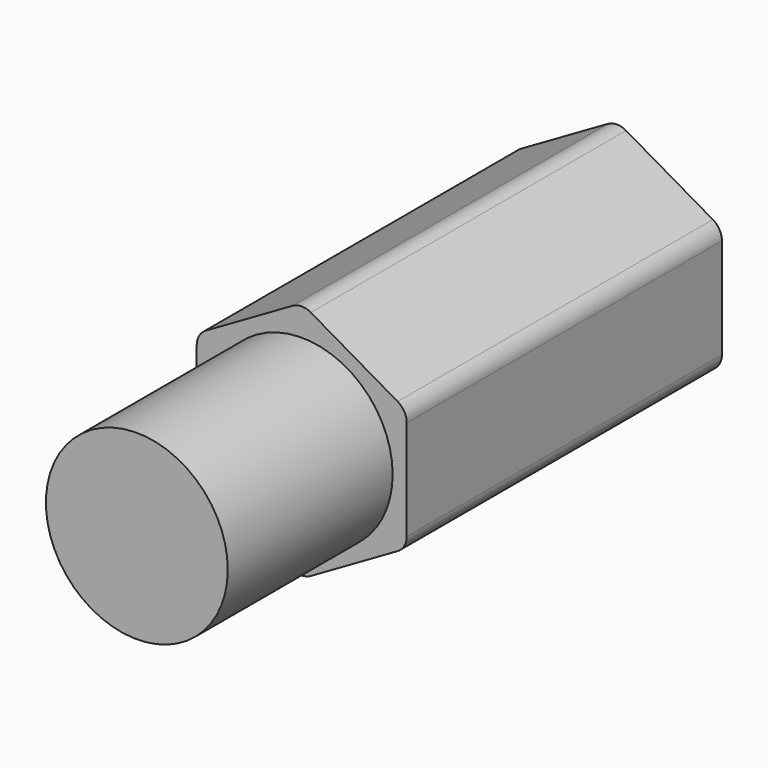
from build123d import *

# Parameters (mm, degrees)
PRISM_DEPTH       = 6.5
FILLET017_R       = 0.3
CYLINDER010_R     = 1.5
CYLINDER010_DEPTH = 3.4
CYLINDER011_R     = 1
CYLINDER011_DEPTH = 6.5


with BuildPart() as part:
    # Prism → Prism (join)
    with BuildSketch(Plane(origin=(12.5, 25.5, 6.3), x_dir=(0, 0, -1), z_dir=(0, -1, 0))):
        Polygon((2, 0), (1, 1.732051), (-1, 1.732051), (-2, 0), (-1, -1.732051), (1, -1.732051), align=None)
    extrude(amount=PRISM_DEPTH)

    # Fillet017
    fillet017_edges = [part.edges().sort_by_distance(p)[0] for p in [
        (12.5, 22.25, 8.3),
        (14.232051, 22.25, 7.3),
        (10.767949, 22.25, 7.3),
        (14.232051, 22.25, 5.3),
        (12.5, 22.25, 4.3),
        (10.767949, 22.25, 5.3),
    ]]
    fillet(fillet017_edges, radius=FILLET017_R)

    # Cylinder010 → Cylinder010 (join)
    with BuildSketch(Plane(origin=(12.5, 19, 6.3), x_dir=(1, 0, 0), z_dir=(0, -1, 0))):
        Circle(CYLINDER010_R)
    extrude(amount=CYLINDER010_DEPTH)

    # Cylinder011 → Cylinder011 (cut)
    with BuildSketch(Plane(origin=(12.5, 26, 6.3), x_dir=(1, 0, 0), z_dir=(0, -1, 0))):
        Circle(CYLINDER011_R)
    extrude(amount=CYLINDER011_DEPTH, mode=Mode.SUBTRACT)


solid = part.part
